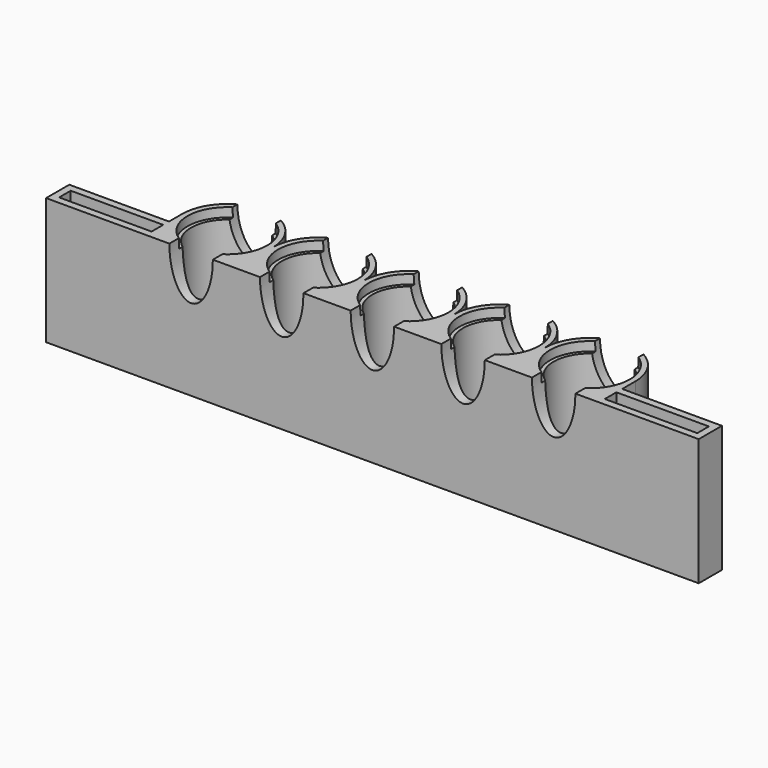
from build123d import *

# Parameters (mm, degrees)
F0_R     = 10
F1_DEPTH = 35
F2_R     = 11
F2_R_2   = 10
F3_DEPTH = 2.5
F5_DEPTH = 25
F7_DEPTH = 35
F8_W     = 2
F8_H     = 4
F9_DEPTH = 35


with BuildPart() as f1:
    # F0 (on Top) → F1 (new body)
    with BuildSketch(Plane.XY):
        with BuildLine():
            ThreePointArc((37.5, 0), (25, 12.5), (12.5, 0))
            ThreePointArc((12.5, 0), (0, 12.5), (-12.5, 0))
            Line((-12.5, 0), (-12.5, -10.5))
            Line((-12.5, -10.5), (-40, -10.5))
            Line((-40, -10.5), (-40, -12.5))
            Line((-40, -12.5), (140, -12.5))
            Line((140, -12.5), (140, -10.5))
            Line((140, -10.5), (112.5, -10.5))
            Line((112.5, -10.5), (112.5, 0))
            ThreePointArc((112.5, 0), (100, 12.5), (87.5, 0))
            ThreePointArc((87.5, 0), (75, 12.5), (62.5, 0))
            ThreePointArc((62.5, 0), (50, 12.5), (37.5, 0))
        make_face()
        Circle(F0_R, mode=Mode.SUBTRACT)
        with Locations((25, 0)):
            Circle(F0_R, mode=Mode.SUBTRACT)
        with Locations((50, 0)):
            Circle(F0_R, mode=Mode.SUBTRACT)
        with Locations((75, 0)):
            Circle(F0_R, mode=Mode.SUBTRACT)
        with Locations((100, 0)):
            Circle(F0_R, mode=Mode.SUBTRACT)
    extrude(amount=F1_DEPTH)

    # F2 (on face) → F3 (cut)
    with BuildSketch(Plane.XY.offset(35)):
        with Locations((100, 0)):
            Circle(F2_R)
        with Locations((100, 0)):
            Circle(F2_R_2, mode=Mode.SUBTRACT)
        with Locations((75, 0)):
            Circle(F2_R)
        with Locations((75, 0)):
            Circle(F2_R_2, mode=Mode.SUBTRACT)
        with Locations((50, 0)):
            Circle(F2_R_2)
        with Locations((25, 0)):
            Circle(F2_R)
        with Locations((25, 0)):
            Circle(F2_R_2, mode=Mode.SUBTRACT)
        Circle(F2_R)
        Circle(F2_R_2, mode=Mode.SUBTRACT)
        with Locations((50, 0)):
            Circle(F2_R)
        with Locations((50, 0)):
            Circle(F2_R_2, mode=Mode.SUBTRACT)
    extrude(amount=-F3_DEPTH, mode=Mode.SUBTRACT)

    # F4 (on Front) → F5 (cut, symmetric)
    with BuildSketch(Plane.XZ):
        with BuildLine():
            add(Edge.make_bspline(
                [(-6, 35), (-6, 13.349365), (3, 24.174682), (12, 35), (3, 45.825318), (-6, 56.650635), (-6, 35)],
                knots=[4.712389, 4.712389, 4.712389, 6.806784, 6.806784, 8.901179, 8.901179, 10.995574, 10.995574, 10.995574], degree=2, weights=[1, 0.5, 1, 0.5, 1, 0.5, 1]))
        make_face()
        with BuildLine():
            add(Edge.make_bspline(
                [(19, 35), (19, 13.349365), (28, 24.174682), (37, 35), (28, 45.825318), (19, 56.650635), (19, 35)],
                knots=[4.712389, 4.712389, 4.712389, 6.806784, 6.806784, 8.901179, 8.901179, 10.995574, 10.995574, 10.995574], degree=2, weights=[1, 0.5, 1, 0.5, 1, 0.5, 1]))
        make_face()
        with BuildLine():
            add(Edge.make_bspline(
                [(44, 35), (44, 13.349365), (53, 24.174682), (62, 35), (53, 45.825318), (44, 56.650635), (44, 35)],
                knots=[4.712389, 4.712389, 4.712389, 6.806784, 6.806784, 8.901179, 8.901179, 10.995574, 10.995574, 10.995574], degree=2, weights=[1, 0.5, 1, 0.5, 1, 0.5, 1]))
        make_face()
        with BuildLine():
            add(Edge.make_bspline(
                [(69, 35), (69, 13.349365), (78, 24.174682), (87, 35), (78, 45.825318), (69, 56.650635), (69, 35)],
                knots=[4.712389, 4.712389, 4.712389, 6.806784, 6.806784, 8.901179, 8.901179, 10.995574, 10.995574, 10.995574], degree=2, weights=[1, 0.5, 1, 0.5, 1, 0.5, 1]))
        make_face()
        with BuildLine():
            add(Edge.make_bspline(
                [(94, 35), (94, 13.349365), (103, 24.174682), (112, 35), (103, 45.825318), (94, 56.650635), (94, 35)],
                knots=[4.712389, 4.712389, 4.712389, 6.806784, 6.806784, 8.901179, 8.901179, 10.995574, 10.995574, 10.995574], degree=2, weights=[1, 0.5, 1, 0.5, 1, 0.5, 1]))
        make_face()
    extrude(amount=F5_DEPTH, both=True, mode=Mode.SUBTRACT)

    # F6 (on face) → F7 (join)
    with BuildSketch(Plane.XY.offset(35)):
        Polygon((-38, -6.5), (-12.5, -6.5), (-12.5, -4.5), (-40, -4.5), (-40, -6.5), (-40, -10.5), (-38, -10.5), align=None)
    extrude(amount=-F7_DEPTH)

    # F8 (on face) → F9 (join)
    with BuildSketch(Plane.XY.offset(35)):
        Polygon((112.5, -4.5), (112.5, -6.5), (138, -6.5), (140, -6.5), (140, -4.5), align=None)
        with Locations((139, -8.5)):
            Rectangle(F8_W, F8_H)
    extrude(amount=-F9_DEPTH)


solid = f1.part
